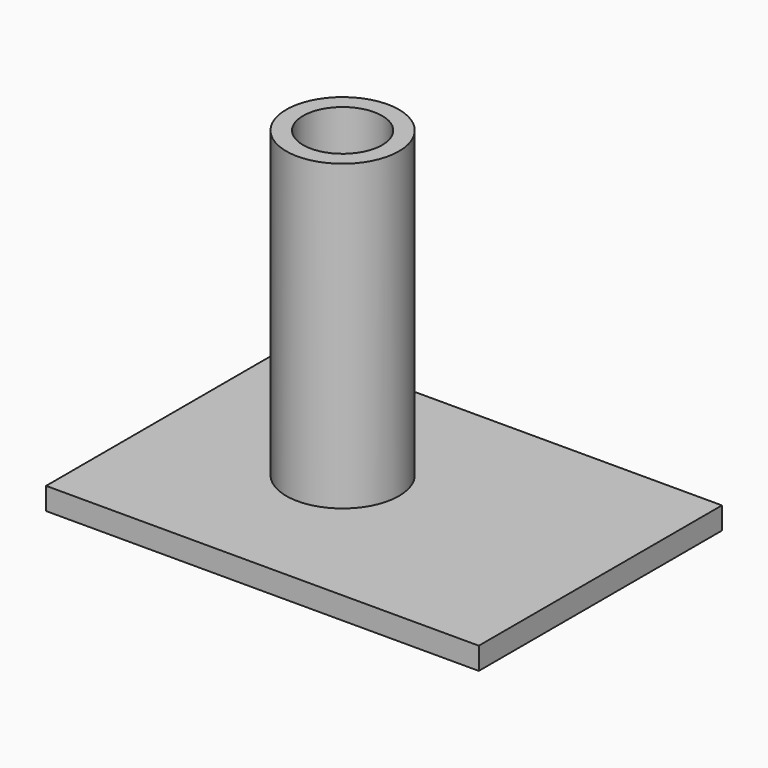
from build123d import *

# Parameters (mm, degrees)
F0_W     = 59.392195
F0_H     = 41.705828
F1_DEPTH = 3.048
F2_R     = 7.737953
F3_DEPTH = 41.656
F4_R     = 5.430673
F5_DEPTH = 50.8


with BuildPart() as f1:
    # F0 (on Top) → F1 (new body)
    with BuildSketch(Plane.XY):
        with Locations((29.696097, -20.852914)):
            Rectangle(F0_W, F0_H)
    extrude(amount=F1_DEPTH)

    # F2 (on face) → F3 (join)
    with BuildSketch(Plane.XY.offset(3.048)):
        with Locations((23.27165, -19.919522)):
            Circle(F2_R)
    extrude(amount=F3_DEPTH)

    # F4 (on face) → F5 (cut)
    with BuildSketch(Plane.XY.offset(44.704)):
        with Locations((23.27165, -19.919522)):
            Circle(F4_R)
    extrude(amount=-F5_DEPTH, mode=Mode.SUBTRACT)


solid = f1.part
